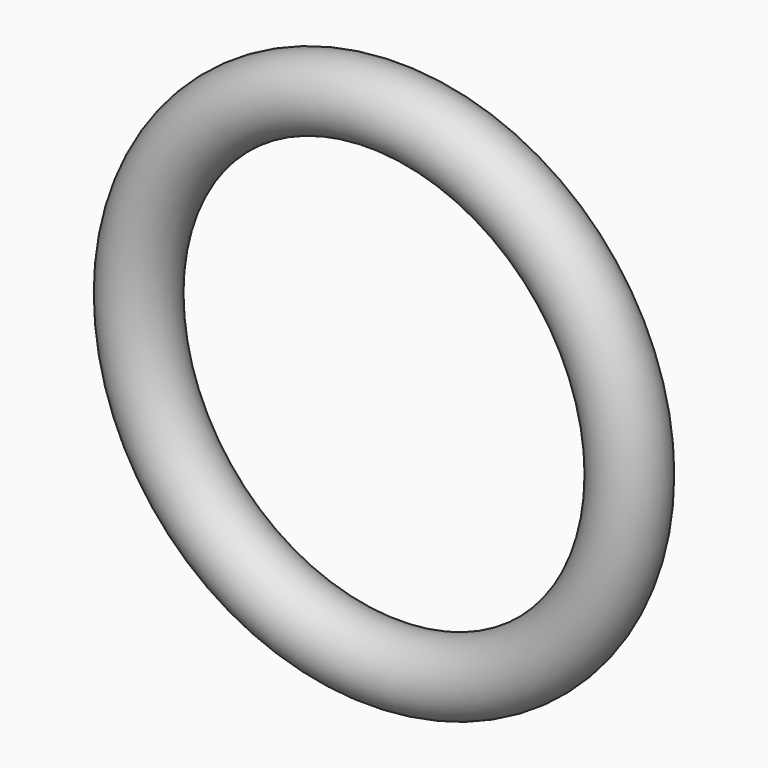
from build123d import *

# Parameters (mm, degrees)
F1_R = 0.79375


with BuildPart() as f2:
    # F2: sweep along a path in F0
    with BuildLine(Plane.XZ) as f2_path:
        CenterArc((0, 0), 4.7625, 0, 360)
    # F1 (on Right) → F2 (sweep)
    with BuildSketch(Plane.YZ):
        with Locations((0, 5.55625)):
            Circle(F1_R)
    sweep(path=f2_path.line)


solid = f2.part
